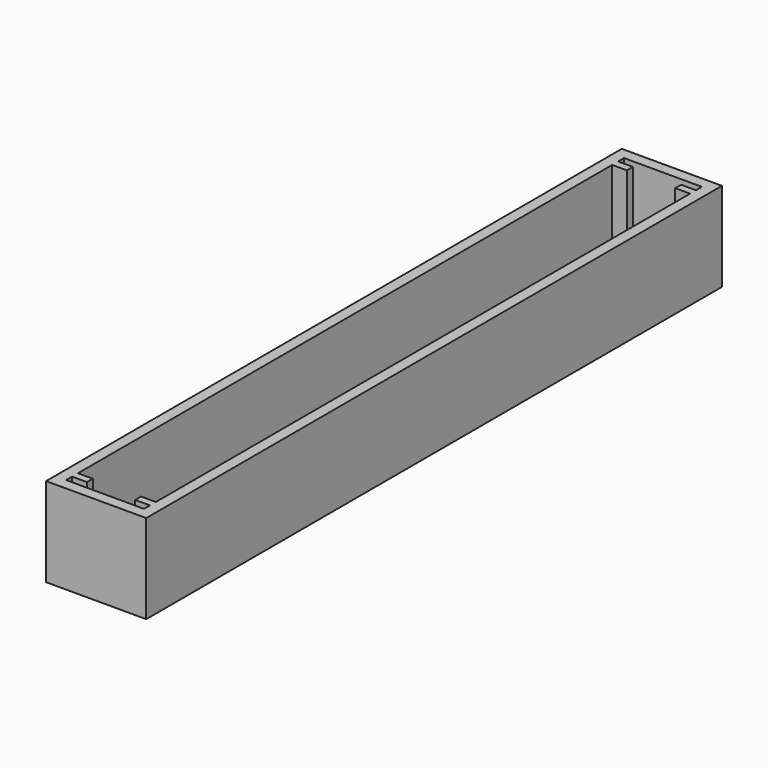
from build123d import *

# Parameters (mm, degrees)
F0_W     = 13.5
F0_H     = 97
F2_DEPTH = 12
F1_W     = 13.5
F1_H     = 97
F3_DEPTH = 1.5


with BuildPart() as f2:
    # F0 (on Top) → F2 (new body)
    with BuildSketch(Plane.XY):
        Rectangle(F0_W, F0_H)
        Polygon((5.25, -46), (5.25, -47), (-5.25, -47), (-5.25, -46), (-3.25, -46), (-3.25, -45), (-5.25, -45), (-5.25, 45), (-3.25, 45), (-3.25, 46), (-5.25, 46), (-5.25, 47), (5.25, 47), (5.25, 46), (3.25, 46), (3.25, 45), (5.25, 45), (5.25, -45), (3.25, -45), (3.25, -46), align=None, mode=Mode.SUBTRACT)
    extrude(amount=F2_DEPTH)

    # F1 (on Top) → F3 (join)
    with BuildSketch(Plane.XY):
        Rectangle(F1_W, F1_H)
    extrude(amount=F3_DEPTH)


solid = f2.part
